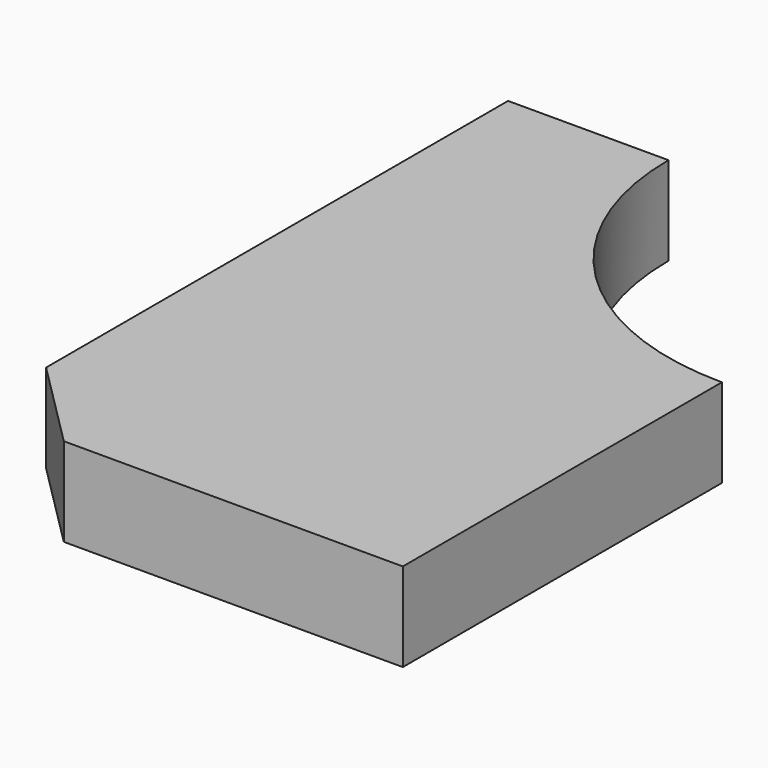
from build123d import *

# Parameters (mm, degrees)
SKETCH_W     = 48.25
SKETCH_H     = 75.15
PAD_DEPTH    = 10
SKETCH001_R  = 30.15
POCKET_DEPTH = 10.001


with BuildPart() as part:
    # Sketch → Pad (new body)
    with BuildSketch(Plane.XY):
        with Locations((24.125, 37.575)):
            Rectangle(SKETCH_W, SKETCH_H)
    extrude(amount=PAD_DEPTH)

    # Sketch001 (on Face6 of Pad) → Pocket (cut, through all)
    with BuildSketch(Plane.XY.offset(10)):
        with Locations((48.25, 75.15)):
            Circle(SKETCH001_R)
        Polygon((0, 10), (10, 0), (0, 0), align=None)
    extrude(amount=-POCKET_DEPTH, mode=Mode.SUBTRACT)


solid = part.part
